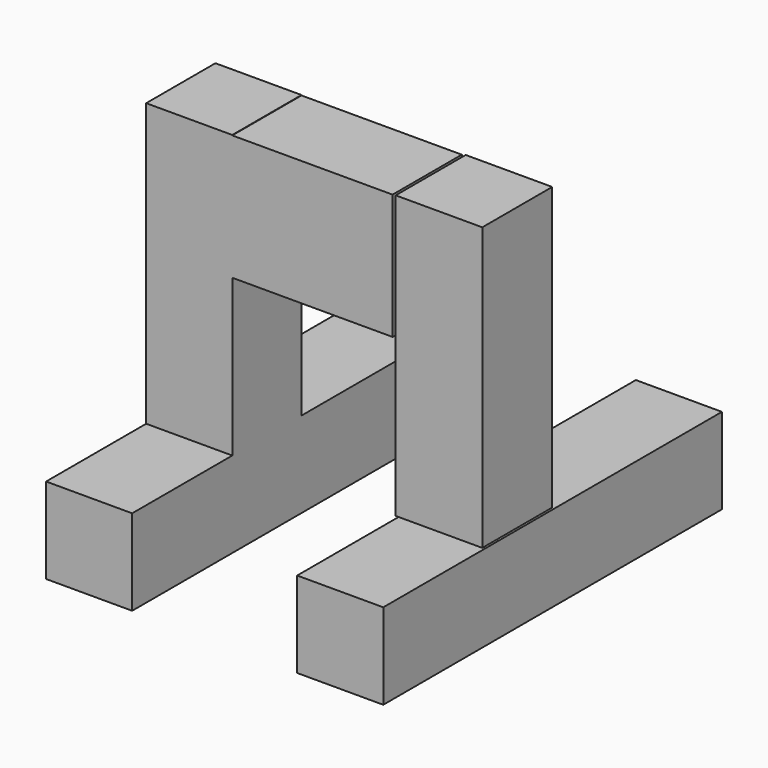
from build123d import *

# Parameters (mm, degrees)
F0_W     = 38.7370586395
F0_H     = 38.6211834848
F1_DEPTH = 190.5
F2_W     = 38.7370586395
F2_H     = 38.943369627
F3_DEPTH = 127
F2_W_2   = 38.9677062631
F2_H_2   = 39.3535867333
F5_W     = 38.943369627
F5_H     = 56.383498013
F6_DEPTH = 72.136


with BuildPart() as f1:
    # F0 (on Front) → F1 (new body)
    with BuildSketch(Plane.XZ):
        with Locations((-56.4915388823, -55.8517817408)):
            Rectangle(F0_W, F0_H)
    extrude(amount=-F1_DEPTH)

    # F2 (on face) → F3 (join)
    with BuildSketch(Plane.XY.offset(-36.5411899984)):
        with Locations((-56.4915388823, 75.7783151865)):
            Rectangle(F2_W, F2_H)
    extrude(amount=F3_DEPTH)

    # F5 (on face) → F6 (join)
    with BuildSketch(Plane.YZ.offset(-37.1230095625)):
        with Locations((75.7783151865, 62.0889104903)):
            Rectangle(F5_W, F5_H)
    extrude(amount=F6_DEPTH)


with BuildPart() as f1b:
    # F0 (on Front) → F1, piece 2 (new body)
    with BuildSketch(Plane.XZ):
        with Locations((56.5054193139, -56.3429240137)):
            Rectangle(F0_W, F0_H)
    extrude(amount=-F1_DEPTH)


with BuildPart() as f3:
    # F2 (on face) → F3, piece 2 (new body)
    with BuildSketch(Plane.XY.offset(-36.5411899984)):
        with Locations((55.9038706124, 75.9834237397)):
            Rectangle(F2_W_2, F2_H_2)
    extrude(amount=F3_DEPTH)


solid = Compound([f1.part, f1b.part, f3.part])
